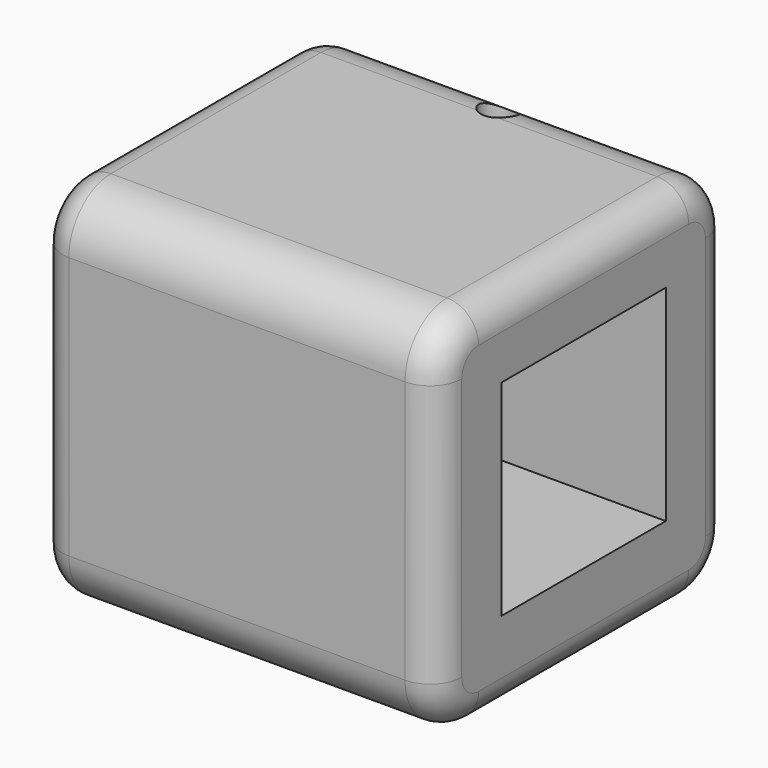
from build123d import *

# Parameters (mm, degrees)
CYLINDER070_R     = 1.6
CYLINDER070_DEPTH = 100
BOX031_W          = 50
BOX031_H          = 19.558
BOX031_DEPTH      = 19.558
BOX030_W          = 38
BOX030_H          = 35
BOX030_DEPTH      = 35
FILLET006_R       = 5
FILLET007_R       = 3


with BuildPart() as cylinder070:
    # Cylinder070 → Cylinder070 (new body)
    with BuildSketch(Plane(origin=(543.2, 13.75, 60), x_dir=(1, 0, 0), z_dir=(0, 0, 1))):
        Circle(CYLINDER070_R)
    extrude(amount=CYLINDER070_DEPTH)


with BuildPart() as cube031:
    # Box031 → Box031 (new body)
    with BuildSketch(Plane(origin=(528.17, -9.779, 103.467), x_dir=(1, 0, 0), z_dir=(0, 0, 1))):
        with Locations((25, 9.779)):
            Rectangle(BOX031_W, BOX031_H)
    extrude(amount=BOX031_DEPTH)


with BuildPart() as cut039:
    # Box030 → Box030 (new body)
    with BuildSketch(Plane(origin=(534.67, -17.5, 95.25), x_dir=(1, 0, 0), z_dir=(0, 0, 1))):
        with Locations((19, 17.5)):
            Rectangle(BOX030_W, BOX030_H)
    extrude(amount=BOX030_DEPTH)

    # Cut038: cut Cube031
    add(cube031.part, mode=Mode.SUBTRACT)


with BuildPart() as cut039_1:
    # Cut038 placement: moved
    add(cut039.part.moved(Location((-10.3, 0, -16.6))))

    # Fillet006
    fillet006_edges = [cut039_1.edges().sort_by_distance(p)[0] for p in [
        (543.37, -17.5, 78.65),
        (543.37, -17.5, 113.65),
        (543.37, 17.5, 113.65),
        (543.37, 17.5, 78.65),
    ]]
    fillet(fillet006_edges, radius=FILLET006_R)

    # Fillet007
    fillet007_edges = [cut039_1.edges().sort_by_distance(p)[0] for p in [
        (524.37, 0, 78.65),
        (562.37, 0, 78.65),
    ]]
    fillet(fillet007_edges, radius=FILLET007_R)

    # Cut039: cut Cylinder070
    add(cylinder070.part, mode=Mode.SUBTRACT)


solid = cut039_1.part
